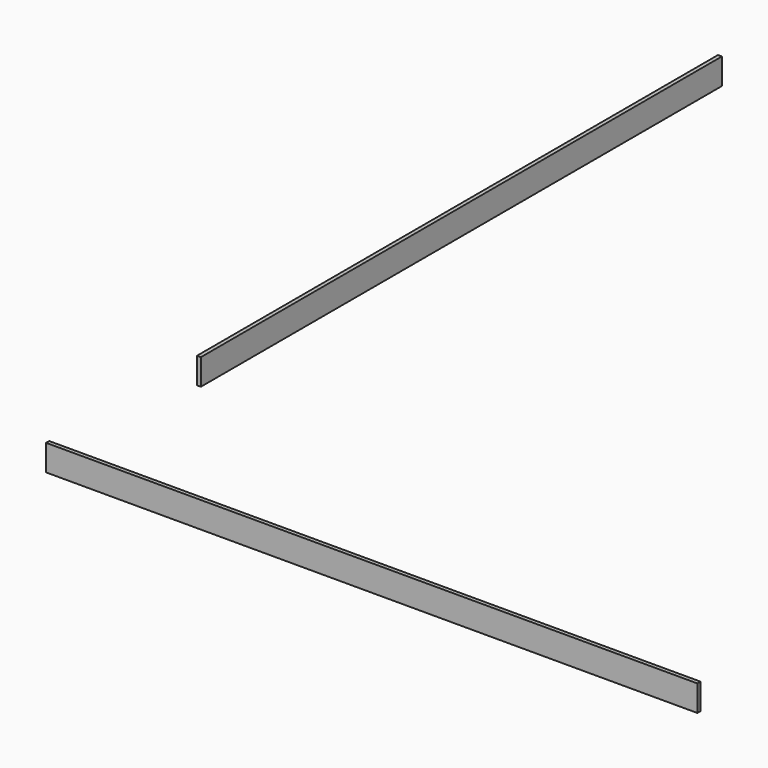
from build123d import *

# Parameters (mm, degrees)
F0_W     = 50
F0_H     = 0.3
F0_W_2   = 0.3
F0_H_2   = 50
F1_DEPTH = 2


with BuildPart() as f1:
    # F0 (on Top) → F1 (new body)
    with BuildSketch(Plane.XY):
        with Locations((-11.791163, -48.867398)):
            Rectangle(F0_W, F0_H)
        with Locations((-36.641163, -9.538637)):
            Rectangle(F0_W_2, F0_H_2)
    extrude(amount=F1_DEPTH)


solid = f1.part
